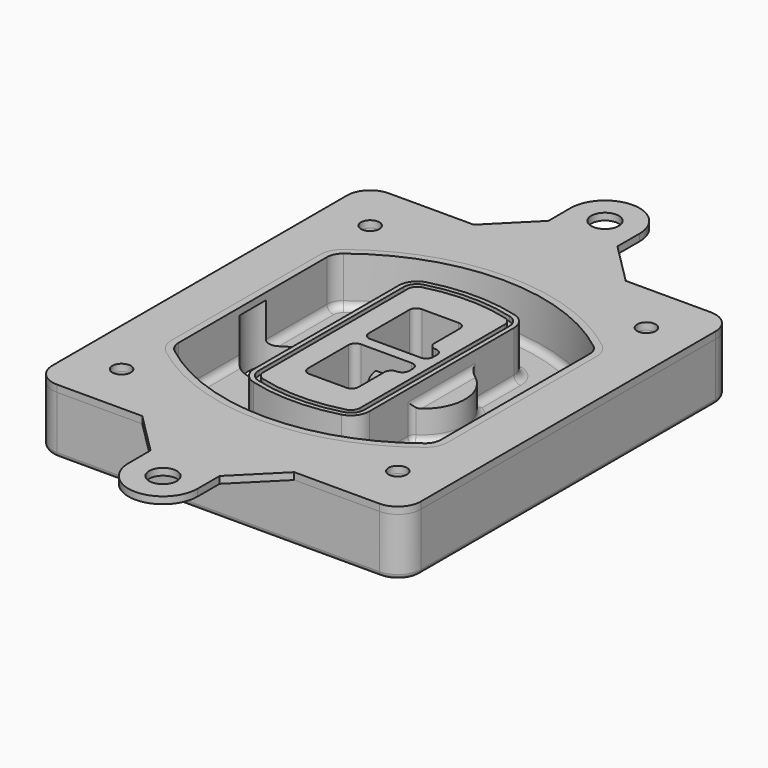
from build123d import *

# Parameters (mm, degrees)
F0_R      = 4
F1_DEPTH  = 25
F2_DEPTH  = 3
F3_DEPTH  = 18
F5_DEPTH  = 21
F6_DEPTH  = 2
F8_DEPTH  = 20
F9_DEPTH  = 16
F10_DEPTH = 25
F7_R      = 6
F7_R_2    = 4
F11_DEPTH = 6
F13_DEPTH = 9
F14_R     = 3
F15_R     = 2
F16_R     = 6
F16_R_2   = 4
F17_DEPTH = 3


with BuildPart() as f1:
    # F0 (on Top) → F1 (new body)
    with BuildSketch(Plane.XY):
        with BuildLine():
            ThreePointArc((-80, -80), (-77.0710678119, -87.0710678119), (-70, -90))
            Line((-70, -90), (70, -90))
            ThreePointArc((70, -90), (77.0710678119, -87.0710678119), (80, -80))
            Line((80, -80), (80, 80))
            ThreePointArc((80, 80), (77.0710678119, 87.0710678119), (70, 90))
            Line((70, 90), (-70, 90))
            ThreePointArc((-70, 90), (-77.0710678119, 87.0710678119), (-80, 80))
            Line((-80, 80), (-80, -80))
        make_face()
        with Locations((-60, -67.5)):
            Circle(F0_R, mode=Mode.SUBTRACT)
        with Locations((60, -67.5)):
            Circle(F0_R, mode=Mode.SUBTRACT)
        with Locations((-60, 67.5)):
            Circle(F0_R, mode=Mode.SUBTRACT)
        with BuildLine():
            ThreePointArc((-64, 40.2934422872), (-62.5820384798, 46.4328484224), (-58.6153846154, 51.3286200352))
            ThreePointArc((-58.6153846154, 51.3286200352), (0, 71.5), (58.6153846154, 51.3286200352))
            ThreePointArc((58.6153846154, 51.3286200352), (62.5820384798, 46.4328484224), (64, 40.2934422872))
            Line((64, 40.2934422872), (64, -40.2934422872))
            ThreePointArc((64, -40.2934422872), (62.5820384798, -46.4328484224), (58.6153846154, -51.3286200352))
            ThreePointArc((58.6153846154, -51.3286200352), (0, -71.5), (-58.6153846154, -51.3286200352))
            ThreePointArc((-58.6153846154, -51.3286200352), (-62.5820384798, -46.4328484224), (-64, -40.2934422872))
            Line((-64, -40.2934422872), (-64, 40.2934422872))
        make_face(mode=Mode.SUBTRACT)
        with Locations((60, 67.5)):
            Circle(F0_R, mode=Mode.SUBTRACT)
        with BuildLine():
            ThreePointArc((58.6153846154, 51.3286200352), (0, 71.5), (-58.6153846154, 51.3286200352))
            ThreePointArc((-58.6153846154, 51.3286200352), (-62.5820384798, 46.4328484224), (-64, 40.2934422872))
            Line((-64, 40.2934422872), (-64, -40.2934422872))
            ThreePointArc((-64, -40.2934422872), (-62.5820384798, -46.4328484224), (-58.6153846154, -51.3286200352))
            ThreePointArc((-58.6153846154, -51.3286200352), (0, -71.5), (58.6153846154, -51.3286200352))
            ThreePointArc((58.6153846154, -51.3286200352), (62.5820384798, -46.4328484224), (64, -40.2934422872))
            Line((64, -40.2934422872), (64, 40.2934422872))
            ThreePointArc((64, 40.2934422872), (62.5820384798, 46.4328484224), (58.6153846154, 51.3286200352))
        make_face()
        with BuildLine():
            Line((-60, -40.2934422872), (-60, 40.2934422872))
            ThreePointArc((-60, 40.2934422872), (-58.9871703427, 44.6787323838), (-56.1538461538, 48.1757121072))
            ThreePointArc((-56.1538461538, 48.1757121072), (0, 67.5), (56.1538461538, 48.1757121072))
            ThreePointArc((56.1538461538, 48.1757121072), (58.9871703427, 44.6787323838), (60, 40.2934422872))
            Line((60, 40.2934422872), (60, -40.2934422872))
            ThreePointArc((60, -40.2934422872), (58.9871703427, -44.6787323838), (56.1538461538, -48.1757121072))
            ThreePointArc((56.1538461538, -48.1757121072), (0, -67.5), (-56.1538461538, -48.1757121072))
            ThreePointArc((-56.1538461538, -48.1757121072), (-58.9871703427, -44.6787323838), (-60, -40.2934422872))
        make_face(mode=Mode.SUBTRACT)
        with BuildLine():
            ThreePointArc((-56.1538461538, 48.1757121072), (-58.9871703427, 44.6787323838), (-60, 40.2934422872))
            Line((-60, 40.2934422872), (-60, -40.2934422872))
            ThreePointArc((-60, -40.2934422872), (-58.9871703427, -44.6787323838), (-56.1538461538, -48.1757121072))
            ThreePointArc((-56.1538461538, -48.1757121072), (0, -67.5), (56.1538461538, -48.1757121072))
            ThreePointArc((56.1538461538, -48.1757121072), (58.9871703427, -44.6787323838), (60, -40.2934422872))
            Line((60, -40.2934422872), (60, 40.2934422872))
            ThreePointArc((60, 40.2934422872), (58.9871703427, 44.6787323838), (56.1538461538, 48.1757121072))
            ThreePointArc((56.1538461538, 48.1757121072), (0, 67.5), (-56.1538461538, 48.1757121072))
        make_face()
        with BuildLine():
            ThreePointArc((54.3076923077, 45.8110311612), (56.2910192399, 43.3631453548), (57, 40.2934422872))
            Line((57, 40.2934422872), (57, -40.2934422872))
            ThreePointArc((57, -40.2934422872), (56.2910192399, -43.3631453548), (54.3076923077, -45.8110311612))
            ThreePointArc((54.3076923077, -45.8110311612), (0, -64.5), (-54.3076923077, -45.8110311612))
            ThreePointArc((-54.3076923077, -45.8110311612), (-56.2910192399, -43.3631453548), (-57, -40.2934422872))
            Line((-57, -40.2934422872), (-57, 40.2934422872))
            ThreePointArc((-57, 40.2934422872), (-56.2910192399, 43.3631453548), (-54.3076923077, 45.8110311612))
            ThreePointArc((-54.3076923077, 45.8110311612), (0, 64.5), (54.3076923077, 45.8110311612))
        make_face(mode=Mode.SUBTRACT)
        with BuildLine():
            Line((57, -40.2934422872), (57, 40.2934422872))
            ThreePointArc((57, 40.2934422872), (56.2910192399, 43.3631453548), (54.3076923077, 45.8110311612))
            ThreePointArc((54.3076923077, 45.8110311612), (0, 64.5), (-54.3076923077, 45.8110311612))
            ThreePointArc((-54.3076923077, 45.8110311612), (-56.2910192399, 43.3631453548), (-57, 40.2934422872))
            Line((-57, 40.2934422872), (-57, -40.2934422872))
            ThreePointArc((-57, -40.2934422872), (-56.2910192399, -43.3631453548), (-54.3076923077, -45.8110311612))
            ThreePointArc((-54.3076923077, -45.8110311612), (0, -64.5), (54.3076923077, -45.8110311612))
            ThreePointArc((54.3076923077, -45.8110311612), (56.2910192399, -43.3631453548), (57, -40.2934422872))
        make_face()
    extrude(amount=-F1_DEPTH)

    # F0 (on Top) → F2 (join)
    with BuildSketch(Plane.XY):
        with BuildLine():
            ThreePointArc((-56.1538461538, 48.1757121072), (-58.9871703427, 44.6787323838), (-60, 40.2934422872))
            Line((-60, 40.2934422872), (-60, -40.2934422872))
            ThreePointArc((-60, -40.2934422872), (-58.9871703427, -44.6787323838), (-56.1538461538, -48.1757121072))
            ThreePointArc((-56.1538461538, -48.1757121072), (0, -67.5), (56.1538461538, -48.1757121072))
            ThreePointArc((56.1538461538, -48.1757121072), (58.9871703427, -44.6787323838), (60, -40.2934422872))
            Line((60, -40.2934422872), (60, 40.2934422872))
            ThreePointArc((60, 40.2934422872), (58.9871703427, 44.6787323838), (56.1538461538, 48.1757121072))
            ThreePointArc((56.1538461538, 48.1757121072), (0, 67.5), (-56.1538461538, 48.1757121072))
        make_face()
        with BuildLine():
            ThreePointArc((54.3076923077, 45.8110311612), (56.2910192399, 43.3631453548), (57, 40.2934422872))
            Line((57, 40.2934422872), (57, -40.2934422872))
            ThreePointArc((57, -40.2934422872), (56.2910192399, -43.3631453548), (54.3076923077, -45.8110311612))
            ThreePointArc((54.3076923077, -45.8110311612), (0, -64.5), (-54.3076923077, -45.8110311612))
            ThreePointArc((-54.3076923077, -45.8110311612), (-56.2910192399, -43.3631453548), (-57, -40.2934422872))
            Line((-57, -40.2934422872), (-57, 40.2934422872))
            ThreePointArc((-57, 40.2934422872), (-56.2910192399, 43.3631453548), (-54.3076923077, 45.8110311612))
            ThreePointArc((-54.3076923077, 45.8110311612), (0, 64.5), (54.3076923077, 45.8110311612))
        make_face(mode=Mode.SUBTRACT)
    extrude(amount=F2_DEPTH)

    # F0 (on Top) → F3 (cut)
    with BuildSketch(Plane.XY):
        with BuildLine():
            Line((57, -40.2934422872), (57, 40.2934422872))
            ThreePointArc((57, 40.2934422872), (56.2910192399, 43.3631453548), (54.3076923077, 45.8110311612))
            ThreePointArc((54.3076923077, 45.8110311612), (0, 64.5), (-54.3076923077, 45.8110311612))
            ThreePointArc((-54.3076923077, 45.8110311612), (-56.2910192399, 43.3631453548), (-57, 40.2934422872))
            Line((-57, 40.2934422872), (-57, -40.2934422872))
            ThreePointArc((-57, -40.2934422872), (-56.2910192399, -43.3631453548), (-54.3076923077, -45.8110311612))
            ThreePointArc((-54.3076923077, -45.8110311612), (0, -64.5), (54.3076923077, -45.8110311612))
            ThreePointArc((54.3076923077, -45.8110311612), (56.2910192399, -43.3631453548), (57, -40.2934422872))
        make_face()
    extrude(amount=-F3_DEPTH, mode=Mode.SUBTRACT)

    # F4 (on face) → F5 (join, through all)
    with BuildSketch(Plane.XY.offset(3)):
        with BuildLine():
            ThreePointArc((-25, -39.2465276821), (-23.3511545998, -44.1109737193), (-19.0842911877, -46.9702398883))
            ThreePointArc((-19.0842911877, -46.9702398883), (0, -49.5), (19.0842911877, -46.9702398883))
            ThreePointArc((19.0842911877, -46.9702398883), (23.3511545998, -44.1109737193), (25, -39.2465276821))
            Line((25, -39.2465276821), (25, 39.2465276821))
            ThreePointArc((25, 39.2465276821), (23.3511545998, 44.1109737193), (19.0842911877, 46.9702398883))
            ThreePointArc((19.0842911877, 46.9702398883), (0, 49.5), (-19.0842911877, 46.9702398883))
            ThreePointArc((-19.0842911877, 46.9702398883), (-23.3511545998, 44.1109737193), (-25, 39.2465276821))
            Line((-25, 39.2465276821), (-25, -39.2465276821))
        make_face()
        with BuildLine():
            ThreePointArc((18.5632183908, 45.0393118368), (21.7633659499, 42.89486221), (23, 39.2465276821))
            Line((23, 39.2465276821), (23, -39.2465276821))
            ThreePointArc((23, -39.2465276821), (21.7633659499, -42.89486221), (18.5632183908, -45.0393118368))
            ThreePointArc((18.5632183908, -45.0393118368), (0, -47.5), (-18.5632183908, -45.0393118368))
            ThreePointArc((-18.5632183908, -45.0393118368), (-21.7633659499, -42.89486221), (-23, -39.2465276821))
            Line((-23, -39.2465276821), (-23, 39.2465276821))
            ThreePointArc((-23, 39.2465276821), (-21.7633659499, 42.89486221), (-18.5632183908, 45.0393118368))
            ThreePointArc((-18.5632183908, 45.0393118368), (0, 47.5), (18.5632183908, 45.0393118368))
        make_face(mode=Mode.SUBTRACT)
        with BuildLine():
            Line((23, -39.2465276821), (23, 39.2465276821))
            ThreePointArc((23, 39.2465276821), (21.7633659499, 42.89486221), (18.5632183908, 45.0393118368))
            ThreePointArc((18.5632183908, 45.0393118368), (0, 47.5), (-18.5632183908, 45.0393118368))
            ThreePointArc((-18.5632183908, 45.0393118368), (-21.7633659499, 42.89486221), (-23, 39.2465276821))
            Line((-23, 39.2465276821), (-23, -39.2465276821))
            ThreePointArc((-23, -39.2465276821), (-21.7633659499, -42.89486221), (-18.5632183908, -45.0393118368))
            ThreePointArc((-18.5632183908, -45.0393118368), (0, -47.5), (18.5632183908, -45.0393118368))
            ThreePointArc((18.5632183908, -45.0393118368), (21.7633659499, -42.89486221), (23, -39.2465276821))
        make_face()
        with BuildLine():
            ThreePointArc((18.0421455939, 43.1083837852), (20.1755772999, 41.6787507007), (21, 39.2465276821))
            Line((21, 39.2465276821), (21, -39.2465276821))
            ThreePointArc((21, -39.2465276821), (20.1755772999, -41.6787507007), (18.0421455939, -43.1083837852))
            ThreePointArc((18.0421455939, -43.1083837852), (0, -45.5), (-18.0421455939, -43.1083837852))
            ThreePointArc((-18.0421455939, -43.1083837852), (-20.1755772999, -41.6787507007), (-21, -39.2465276821))
            Line((-21, -39.2465276821), (-21, 39.2465276821))
            ThreePointArc((-21, 39.2465276821), (-20.1755772999, 41.6787507007), (-18.0421455939, 43.1083837852))
            ThreePointArc((-18.0421455939, 43.1083837852), (0, 45.5), (18.0421455939, 43.1083837852))
        make_face(mode=Mode.SUBTRACT)
        with BuildLine():
            Line((21, -39.2465276821), (21, 39.2465276821))
            ThreePointArc((21, 39.2465276821), (20.1755772999, 41.6787507007), (18.0421455939, 43.1083837852))
            ThreePointArc((18.0421455939, 43.1083837852), (0, 45.5), (-18.0421455939, 43.1083837852))
            ThreePointArc((-18.0421455939, 43.1083837852), (-20.1755772999, 41.6787507007), (-21, 39.2465276821))
            Line((-21, 39.2465276821), (-21, -39.2465276821))
            ThreePointArc((-21, -39.2465276821), (-20.1755772999, -41.6787507007), (-18.0421455939, -43.1083837852))
            ThreePointArc((-18.0421455939, -43.1083837852), (0, -45.5), (18.0421455939, -43.1083837852))
            ThreePointArc((18.0421455939, -43.1083837852), (20.1755772999, -41.6787507007), (21, -39.2465276821))
        make_face()
        with BuildLine():
            Line((-8, -2.5), (14, -2.5))
            ThreePointArc((14, -2.5), (16.1213203436, -3.3786796564), (17, -5.5))
            Line((17, -5.5), (17, -7.5))
            ThreePointArc((17, -7.5), (16.1213203436, -9.6213203436), (14, -10.5))
            ThreePointArc((14, -10.5), (11.8786796564, -11.3786796564), (11, -13.5))
            Line((11, -13.5), (11, -27.5))
            ThreePointArc((11, -27.5), (10.1213203436, -29.6213203436), (8, -30.5))
            Line((8, -30.5), (-8, -30.5))
            ThreePointArc((-8, -30.5), (-10.1213203436, -29.6213203436), (-11, -27.5))
            Line((-11, -27.5), (-11, -5.5))
            ThreePointArc((-11, -5.5), (-10.1213203436, -3.3786796564), (-8, -2.5))
        make_face(mode=Mode.SUBTRACT)
        with BuildLine():
            ThreePointArc((-8, 2.5), (-10.1213203436, 3.3786796564), (-11, 5.5))
            Line((-11, 5.5), (-11, 27.5))
            ThreePointArc((-11, 27.5), (-10.1213203436, 29.6213203436), (-8, 30.5))
            Line((-8, 30.5), (8, 30.5))
            ThreePointArc((8, 30.5), (10.1213203436, 29.6213203436), (11, 27.5))
            Line((11, 27.5), (11, 13.5))
            ThreePointArc((11, 13.5), (11.8786796564, 11.3786796564), (14, 10.5))
            ThreePointArc((14, 10.5), (16.1213203436, 9.6213203436), (17, 7.5))
            Line((17, 7.5), (17, 5.5))
            ThreePointArc((17, 5.5), (16.1213203436, 3.3786796564), (14, 2.5))
            Line((14, 2.5), (-8, 2.5))
        make_face(mode=Mode.SUBTRACT)
    extrude(amount=-F5_DEPTH)

    # F4 (on face) → F6 (cut)
    with BuildSketch(Plane.XY.offset(3)):
        with BuildLine():
            Line((23, -39.2465276821), (23, 39.2465276821))
            ThreePointArc((23, 39.2465276821), (21.7633659499, 42.89486221), (18.5632183908, 45.0393118368))
            ThreePointArc((18.5632183908, 45.0393118368), (0, 47.5), (-18.5632183908, 45.0393118368))
            ThreePointArc((-18.5632183908, 45.0393118368), (-21.7633659499, 42.89486221), (-23, 39.2465276821))
            Line((-23, 39.2465276821), (-23, -39.2465276821))
            ThreePointArc((-23, -39.2465276821), (-21.7633659499, -42.89486221), (-18.5632183908, -45.0393118368))
            ThreePointArc((-18.5632183908, -45.0393118368), (0, -47.5), (18.5632183908, -45.0393118368))
            ThreePointArc((18.5632183908, -45.0393118368), (21.7633659499, -42.89486221), (23, -39.2465276821))
        make_face()
        with BuildLine():
            ThreePointArc((18.0421455939, 43.1083837852), (20.1755772999, 41.6787507007), (21, 39.2465276821))
            Line((21, 39.2465276821), (21, -39.2465276821))
            ThreePointArc((21, -39.2465276821), (20.1755772999, -41.6787507007), (18.0421455939, -43.1083837852))
            ThreePointArc((18.0421455939, -43.1083837852), (0, -45.5), (-18.0421455939, -43.1083837852))
            ThreePointArc((-18.0421455939, -43.1083837852), (-20.1755772999, -41.6787507007), (-21, -39.2465276821))
            Line((-21, -39.2465276821), (-21, 39.2465276821))
            ThreePointArc((-21, 39.2465276821), (-20.1755772999, 41.6787507007), (-18.0421455939, 43.1083837852))
            ThreePointArc((-18.0421455939, 43.1083837852), (0, 45.5), (18.0421455939, 43.1083837852))
        make_face(mode=Mode.SUBTRACT)
    extrude(amount=-F6_DEPTH, mode=Mode.SUBTRACT)

    # F7 (on face) → F8 (join)
    with BuildSketch(Plane(origin=(0, 0, -25), x_dir=(1, 0, 0), z_dir=(0, 0, -1))):
        with BuildLine():
            ThreePointArc((3.28842436, 0), (16.7567035675, 13.4682792075), (30.224982775, 0))
            Line((30.224982775, 0), (35.224982775, 0))
            ThreePointArc((35.224982775, 0), (16.7567035675, 18.4682792075), (-1.71157564, 0))
            Line((-1.71157564, 0), (3.28842436, 0))
        make_face()
        with BuildLine():
            Line((3.28842436, 0), (30.224982775, 0))
            ThreePointArc((30.224982775, 0), (16.7567035675, 13.4682792075), (3.28842436, 0))
        make_face()
        with BuildLine():
            ThreePointArc((3.28842436, 0), (16.7567035675, -13.4682792075), (30.224982775, 0))
            Line((30.224982775, 0), (3.28842436, 0))
        make_face()
        with BuildLine():
            Line((35.224982775, 0), (30.224982775, 0))
            ThreePointArc((30.224982775, 0), (16.7567035675, -13.4682792075), (3.28842436, 0))
            Line((3.28842436, 0), (-1.71157564, 0))
            ThreePointArc((-1.71157564, 0), (16.7567035675, -18.4682792075), (35.224982775, 0))
        make_face()
    extrude(amount=-F8_DEPTH)

    # F7 (on face) → F9 (cut)
    with BuildSketch(Plane(origin=(0, 0, -25), x_dir=(1, 0, 0), z_dir=(0, 0, -1))):
        with BuildLine():
            Line((3.28842436, 0), (30.224982775, 0))
            ThreePointArc((30.224982775, 0), (16.7567035675, 13.4682792075), (3.28842436, 0))
        make_face()
        with BuildLine():
            ThreePointArc((3.28842436, 0), (16.7567035675, -13.4682792075), (30.224982775, 0))
            Line((30.224982775, 0), (3.28842436, 0))
        make_face()
    extrude(amount=-F9_DEPTH, mode=Mode.SUBTRACT)

    # F7 (on face) → F10 (cut)
    with BuildSketch(Plane(origin=(0, 0, -25), x_dir=(1, 0, 0), z_dir=(0, 0, -1))):
        with BuildLine():
            Line((-59.0318229325, 0), (-32.0952645175, 0))
            ThreePointArc((-32.0952645175, 0), (-45.563543725, 13.4682792075), (-59.0318229325, 0))
        make_face()
        with BuildLine():
            ThreePointArc((-59.0318229325, 0), (-45.563543725, -13.4682792075), (-32.0952645175, 0))
            Line((-32.0952645175, 0), (-59.0318229325, 0))
        make_face()
    extrude(amount=-F10_DEPTH, mode=Mode.SUBTRACT)

    # F7 (on face) → F11 (cut)
    with BuildSketch(Plane(origin=(0, 0, -25), x_dir=(1, 0, 0), z_dir=(0, 0, -1))):
        with Locations((60, -67.5)):
            Circle(F7_R)
        with Locations((60, -67.5)):
            Circle(F7_R_2, mode=Mode.SUBTRACT)
        with Locations((60, -67.5)):
            Circle(F7_R)
        with Locations((60, -67.5)):
            Circle(F7_R_2, mode=Mode.SUBTRACT)
        with Locations((-60, -67.5)):
            Circle(F7_R)
        with Locations((-60, -67.5)):
            Circle(F7_R_2, mode=Mode.SUBTRACT)
        with Locations((-60, -67.5)):
            Circle(F7_R)
        with Locations((-60, -67.5)):
            Circle(F7_R_2, mode=Mode.SUBTRACT)
        with Locations((-60, 67.5)):
            Circle(F7_R)
        with Locations((-60, 67.5)):
            Circle(F7_R_2, mode=Mode.SUBTRACT)
        with Locations((-60, 67.5)):
            Circle(F7_R)
        with Locations((-60, 67.5)):
            Circle(F7_R_2, mode=Mode.SUBTRACT)
        with Locations((60, 67.5)):
            Circle(F7_R)
        with Locations((60, 67.5)):
            Circle(F7_R_2, mode=Mode.SUBTRACT)
        with Locations((60, 67.5)):
            Circle(F7_R)
        with Locations((60, 67.5)):
            Circle(F7_R_2, mode=Mode.SUBTRACT)
    extrude(amount=-F11_DEPTH, mode=Mode.SUBTRACT)

    # F12 (on face) → F13 (cut, through all)
    with BuildSketch(Plane(origin=(0, 0, -9), x_dir=(1, 0, 0), z_dir=(0, 0, -1))):
        with BuildLine():
            Line((11, 13.5), (11, 17.5481537753))
            ThreePointArc((11, 17.5481537753), (2.5696536419, 11.8239143813), (-1.5415842455, 2.5))
            Line((-1.5415842455, 2.5), (3.5224848595, 2.5))
            ThreePointArc((3.5224848595, 2.5), (6.1857188154, 8.3455872281), (11.2536447004, 12.2927168648))
            ThreePointArc((11.2536447004, 12.2927168648), (11.0640958889, 12.8831798879), (11, 13.5))
        make_face()
        with BuildLine():
            ThreePointArc((11.2536447004, -12.2927168648), (6.1857188154, -8.3455872281), (3.5224848595, -2.5))
            Line((3.5224848595, -2.5), (-1.5415842455, -2.5))
            ThreePointArc((-1.5415842455, -2.5), (2.5696536419, -11.8239143813), (11, -17.5481537753))
            Line((11, -17.5481537753), (11, -13.5))
            ThreePointArc((11, -13.5), (11.0640958889, -12.8831798879), (11.2536447004, -12.2927168648))
        make_face()
        with BuildLine():
            ThreePointArc((11.2536447004, 12.2927168648), (6.1857188154, 8.3455872281), (3.5224848595, 2.5))
            Line((3.5224848595, 2.5), (14, 2.5))
            ThreePointArc((14, 2.5), (16.1213203436, 3.3786796564), (17, 5.5))
            Line((17, 5.5), (17, 7.5))
            ThreePointArc((17, 7.5), (16.1213203436, 9.6213203436), (14, 10.5))
            ThreePointArc((14, 10.5), (12.3601599782, 10.9878446101), (11.2536447004, 12.2927168648))
        make_face()
        with BuildLine():
            Line((14, -2.5), (3.5224848595, -2.5))
            ThreePointArc((3.5224848595, -2.5), (6.1857188154, -8.3455872281), (11.2536447004, -12.2927168648))
            ThreePointArc((11.2536447004, -12.2927168648), (12.3601599782, -10.9878446101), (14, -10.5))
            ThreePointArc((14, -10.5), (16.1213203436, -9.6213203436), (17, -7.5))
            Line((17, -7.5), (17, -5.5))
            ThreePointArc((17, -5.5), (16.1213203436, -3.3786796564), (14, -2.5))
        make_face()
    extrude(amount=F13_DEPTH, mode=Mode.SUBTRACT)

    # F14
    f14_edges = [f1.edges().sort_by_distance(p)[0] for p in [
        (-57, -23.703476, -18),
        (-57, 23.703476, -18),
        (25, 0, -5),
        (25, 16.526506, -11.5),
        (25, -16.526506, -11.5),
        (25, -27.886517, -18),
        (35.224983, 0, -18),
    ]]
    fillet(f14_edges, radius=F14_R)

    # F15
    f15_edges = [f1.edges().sort_by_distance(p)[0] for p in [
        (0, -90, -25),
    ]]
    fillet(f15_edges, radius=F15_R)


with BuildPart() as f17:
    # F16 (on face) → F17 (new body, through all)
    with BuildSketch(Plane.XY):
        with BuildLine():
            Line((15, 108), (15, 120))
            ThreePointArc((15, 120), (0, 135), (-15, 120))
            Line((-15, 120), (-15, 108))
            Line((-15, 108), (-33, 90))
            Line((-33, 90), (33, 90))
            Line((33, 90), (15, 108))
        make_face()
        with Locations((0, 120)):
            Circle(F16_R, mode=Mode.SUBTRACT)
        with BuildLine():
            ThreePointArc((-15, -120), (0, -135), (15, -120))
            Line((15, -120), (15, -108))
            Line((15, -108), (33, -90))
            Line((33, -90), (-33, -90))
            Line((-33, -90), (-15, -108))
            Line((-15, -108), (-15, -120))
        make_face()
        with Locations((0, -120)):
            Circle(F16_R, mode=Mode.SUBTRACT)
        with BuildLine():
            Line((70, 90), (33, 90))
            Line((33, 90), (-33, 90))
            Line((-33, 90), (-70, 90))
            ThreePointArc((-70, 90), (-77.0710678119, 87.0710678119), (-80, 80))
            Line((-80, 80), (-80, -80))
            ThreePointArc((-80, -80), (-77.0710678119, -87.0710678119), (-70, -90))
            Line((-70, -90), (-33, -90))
            Line((-33, -90), (33, -90))
            Line((33, -90), (70, -90))
            ThreePointArc((70, -90), (77.0710678119, -87.0710678119), (80, -80))
            Line((80, -80), (80, 80))
            ThreePointArc((80, 80), (77.0710678119, 87.0710678119), (70, 90))
        make_face()
        with Locations((-60, -67.5)):
            Circle(F16_R_2, mode=Mode.SUBTRACT)
        with Locations((60, -67.5)):
            Circle(F16_R_2, mode=Mode.SUBTRACT)
        with Locations((-60, 67.5)):
            Circle(F16_R_2, mode=Mode.SUBTRACT)
        with BuildLine():
            ThreePointArc((-60, 40.2934422872), (-58.9871703427, 44.6787323838), (-56.1538461538, 48.1757121072))
            ThreePointArc((-56.1538461538, 48.1757121072), (0, 67.5), (56.1538461538, 48.1757121072))
            ThreePointArc((56.1538461538, 48.1757121072), (58.9871703427, 44.6787323838), (60, 40.2934422872))
            Line((60, 40.2934422872), (60, -40.2934422872))
            ThreePointArc((60, -40.2934422872), (58.9871703427, -44.6787323838), (56.1538461538, -48.1757121072))
            ThreePointArc((56.1538461538, -48.1757121072), (0, -67.5), (-56.1538461538, -48.1757121072))
            ThreePointArc((-56.1538461538, -48.1757121072), (-58.9871703427, -44.6787323838), (-60, -40.2934422872))
            Line((-60, -40.2934422872), (-60, 40.2934422872))
        make_face(mode=Mode.SUBTRACT)
        with Locations((60, 67.5)):
            Circle(F16_R_2, mode=Mode.SUBTRACT)
    extrude(amount=F17_DEPTH)


solid = Compound([f1.part, f17.part])
